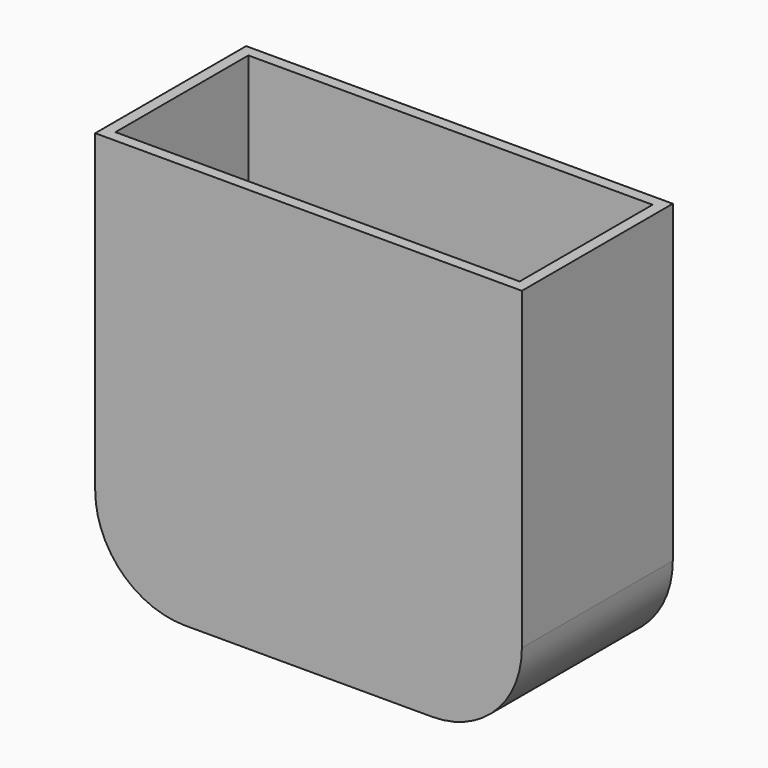
from build123d import *

# Parameters (mm, degrees)
F1_DEPTH = 42
F2_T     = -2.5


with BuildPart() as f1:
    # F0 (on Front) → F1 (new body)
    with BuildSketch(Plane.XZ):
        with BuildLine():
            Line((95, 0), (0, 0))
            Line((0, 0), (0, -70))
            ThreePointArc((0, -70), (5.857864, -84.142136), (20, -90))
            Line((20, -90), (75, -90))
            ThreePointArc((75, -90), (89.142136, -84.142136), (95, -70))
            Line((95, -70), (95, 0))
        make_face()
    extrude(amount=F1_DEPTH)

    # F2
    f2_openings = [f1.faces().sort_by_distance(p)[0] for p in [
        (47.5, -21, 0),
    ]]
    offset(amount=F2_T, openings=f2_openings)


solid = f1.part
